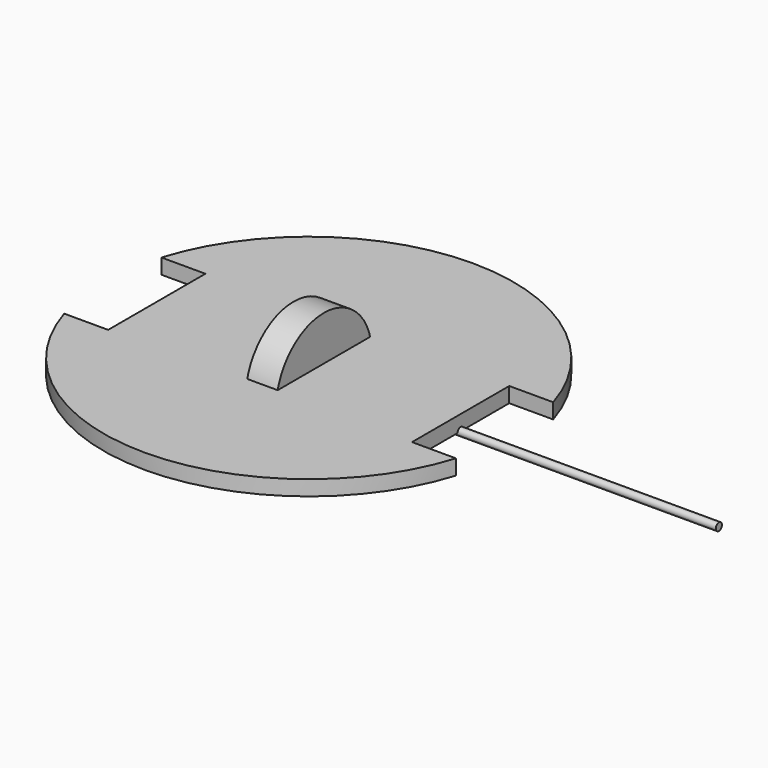
from build123d import *

# Parameters (mm, degrees)
F0_R     = 171.45
F1_DEPTH = 12.7
F2_W     = 44.45
F2_H     = 101.6
F3_DEPTH = 12.701
F4_W     = 25.4
F4_H     = 46.825
F6_R     = 3.175
F7_DEPTH = 342.9


with BuildPart() as f1:
    # F0 (on Top) → F1 (new body)
    with BuildSketch(Plane.XY):
        Circle(F0_R)
    extrude(amount=F1_DEPTH)

    # F2 (on face) → F3 (cut, through all)
    with BuildSketch(Plane.XY.offset(12.7)):
        with Locations((-149.225, 0)):
            Rectangle(F2_W, F2_H)
        with Locations((149.225, 0)):
            Rectangle(F2_W, F2_H)
    extrude(amount=-F3_DEPTH, mode=Mode.SUBTRACT)


with BuildPart() as f5:
    # F4 (on Front) → F5 (revolve)
    with BuildSketch(Plane.XZ):
        with Locations((0, 26.5875)):
            Rectangle(F4_W, F4_H)
    revolve(axis=Axis((6.534176, 0, 0), (1, 0, 0)))


with BuildPart() as f7:
    # F6 (on Right) → F7 (new body)
    with BuildSketch(Plane.YZ):
        Circle(F6_R)
    extrude(amount=F7_DEPTH)


solid = Compound([f1.part, f5.part, f7.part])
